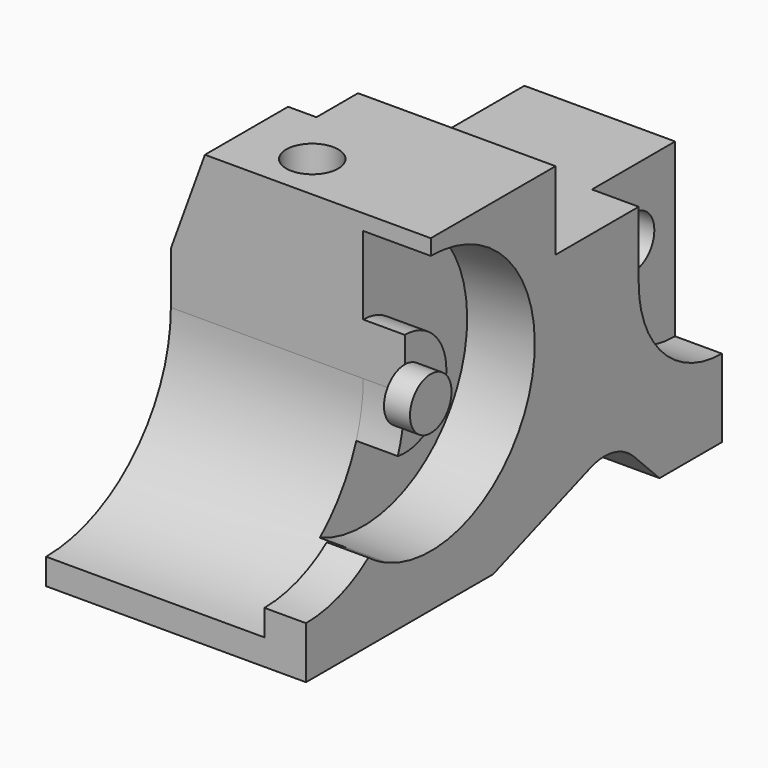
from build123d import *

# Parameters (mm, degrees)
F1_DEPTH  = 25
F2_R      = 25
F3_DEPTH  = 13
F5_DEPTH  = 8
F6_R      = 5
F7_DEPTH  = 5
F9_DEPTH  = 8
F11_DEPTH = 9
F12_R     = 5
F13_DEPTH = 41.001
F14_W     = 12
F14_H     = 50
F14_R     = 5
F15_DEPTH = 15.001
F16_DEPTH = 48.001
F18_DEPTH = 70.001


with BuildPart() as f1:
    # F0 (on Right) → F1 (new body, symmetric)
    with BuildSketch(Plane.YZ):
        with BuildLine():
            Line((0, 5), (0, 0))
            Line((0, 0), (45, 0))
            Line((45, 0), (68.3396509331, 8.4949382178))
            ThreePointArc((68.3396509331, 8.4949382178), (73.9242485057, 8.8609720811), (78.8309201782, 6.1690798218))
            Line((78.8309201782, 6.1690798218), (85, 0))
            Line((85, 0), (100, 0))
            Line((100, 0), (100, 48))
            Line((100, 48), (60, 48))
            Line((60, 48), (60, 63))
            Line((60, 63), (30, 63))
            Line((30, 63), (30, 35))
            ThreePointArc((30, 35), (21.2132034356, 13.7867965644), (0, 5))
        make_face()
    extrude(amount=F1_DEPTH, both=True)

    # F2 (on face) → F3 (cut)
    with BuildSketch(Plane.YZ.offset(25)):
        with Locations((30, 35)):
            Circle(F2_R)
    extrude(amount=-F3_DEPTH, mode=Mode.SUBTRACT)

    # F4 (on face) → F5 (join)
    with BuildSketch(Plane.YZ.offset(12)):
        with BuildLine():
            ThreePointArc((30, 35), (29.5803989155, 30), (28.3333333333, 25.1398670282))
            ThreePointArc((28.3333333333, 25.1398670282), (39.9649718945, 34.1637373972), (30, 45))
            Line((30, 45), (30, 35))
        make_face()
    extrude(amount=F5_DEPTH)

    # F6 (on face) → F7 (join, through all)
    with BuildSketch(Plane.YZ.offset(20)):
        with Locations((30, 35)):
            Circle(F6_R)
    extrude(amount=F7_DEPTH)

    # F8 (on face) → F9 (join)
    with BuildSketch(Plane.YZ.offset(25)):
        with BuildLine():
            Line((0, 10), (0, 5))
            ThreePointArc((0, 5), (10.4452260108, 6.8771044595), (19.5833333333, 12.2735164278))
            ThreePointArc((19.5833333333, 12.2735164278), (17.2187573265, 13.5141945526), (15, 15))
            ThreePointArc((15, 15), (7.9056941504, 11.2829175487), (0, 10))
        make_face()
    extrude(amount=-F9_DEPTH)

    # F10 (on face) → F11 (cut)
    with BuildSketch(Plane.YZ.offset(25)):
        with BuildLine():
            Line((100, 48), (80, 48))
            Line((80, 48), (80, 35))
            ThreePointArc((80, 35), (85.8578643763, 20.8578643763), (100, 15))
            Line((100, 15), (100, 48))
        make_face()
    extrude(amount=-F11_DEPTH, mode=Mode.SUBTRACT)

    # F12 (on face) → F13 (cut, through all)
    with BuildSketch(Plane.YZ.offset(16)):
        with Locations((90.0000035763, 35)):
            Circle(F12_R)
    extrude(amount=-F13_DEPTH, mode=Mode.SUBTRACT)

    # F14 (on face) → F15 (cut, through all)
    with BuildSketch(Plane.XY.offset(48)):
        with Locations((-19, 75)):
            Rectangle(F14_W, F14_H)
        with Locations((-5, 39)):
            Circle(F14_R)
    extrude(amount=F15_DEPTH, mode=Mode.SUBTRACT)

    # F14 (on face) → F16 (cut, through all)
    with BuildSketch(Plane.XY.offset(48)):
        with Locations((-19, 75)):
            Rectangle(F14_W, F14_H)
        with Locations((-5, 39)):
            Circle(F14_R)
    extrude(amount=-F16_DEPTH, mode=Mode.SUBTRACT)

    # F17 (on face) → F18 (cut, through all)
    with BuildSketch(Plane.XZ.offset(-30)):
        Polygon((-25, 45), (-18.4485357832, 63), (-25, 63), align=None)
    extrude(amount=-F18_DEPTH, mode=Mode.SUBTRACT)


solid = f1.part
